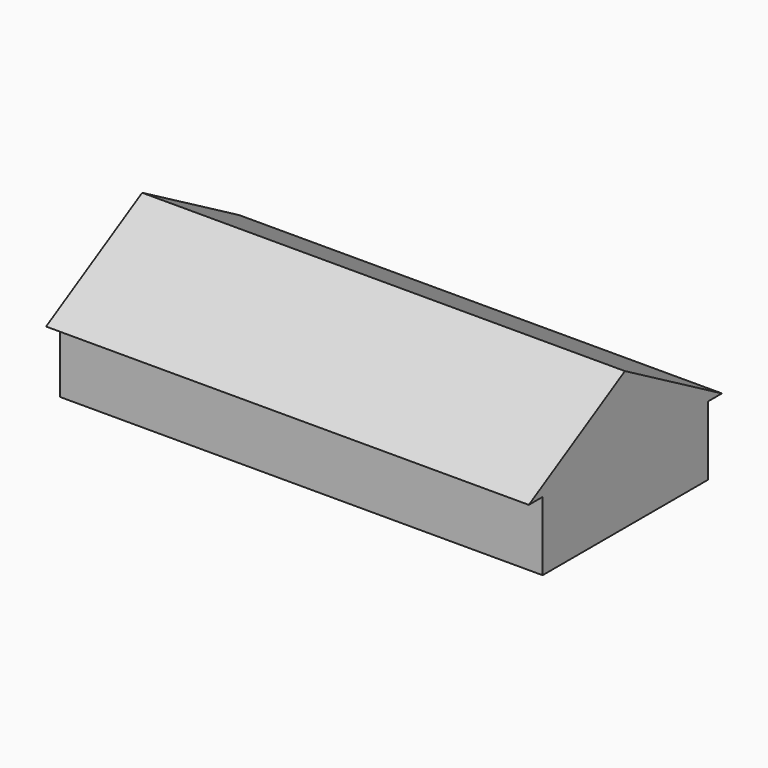
from build123d import *

# Parameters (mm, degrees)
F0_W     = 8534.4
F0_H     = 3657.6
F0_W_2   = 8229.6
F0_H_2   = 3352.8
F1_DEPTH = 1219.2
F3_DEPTH = 8534.4


with BuildPart() as f1:
    # F0 (on Top) → F1 (new body)
    with BuildSketch(Plane.XY):
        with Locations((-3037.703025, 10.483524)):
            Rectangle(F0_W, F0_H)
        with Locations((-3037.703025, 10.483524)):
            Rectangle(F0_W_2, F0_H_2, mode=Mode.SUBTRACT)
    extrude(amount=F1_DEPTH)

    # F2 (on face) → F3 (join)
    with BuildSketch(Plane.YZ.offset(1229.496975)):
        Polygon((-2123.116476, 1219.2), (-1818.316476, 1219.2), (1839.283524, 1219.2), (2144.083524, 1219.2), (0, 2438.4), align=None)
    extrude(amount=-F3_DEPTH)


solid = f1.part
